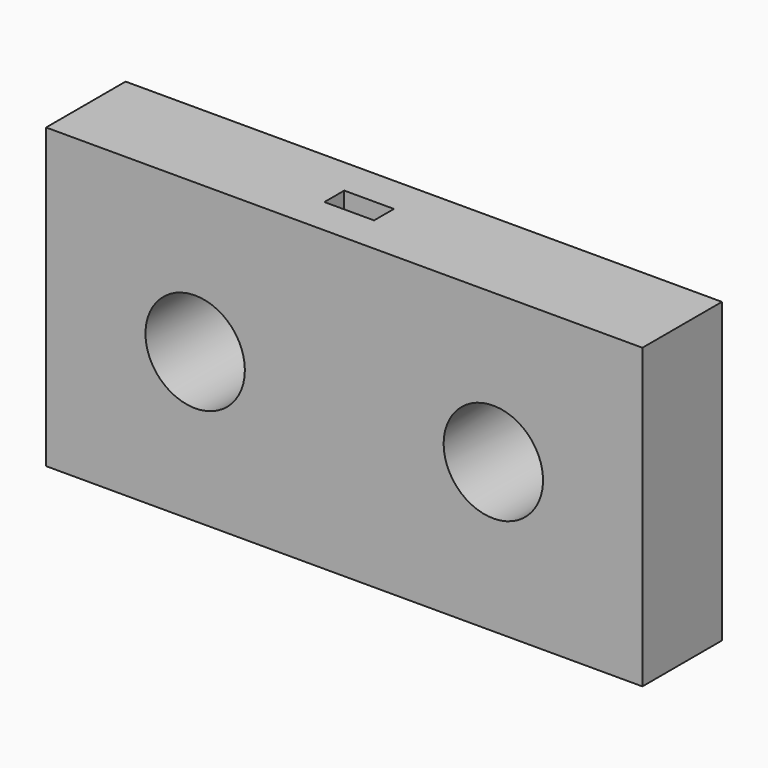
from build123d import *

# Parameters (mm, degrees)
F0_W     = 152.4
F0_H     = 76.2
F0_R     = 12.7
F2_DEPTH = 25.4
F1_W     = 12.7
F1_H     = 6.35
F3_DEPTH = 38.1


with BuildPart() as f2:
    # F0 (on Front) → F2 (new body)
    with BuildSketch(Plane.XZ):
        Rectangle(F0_W, F0_H)
        with Locations((-38.1, 0)):
            Circle(F0_R, mode=Mode.SUBTRACT)
        with BuildLine():
            ThreePointArc((50.8, 0), (38.1, -12.7), (25.4, 0))
            ThreePointArc((25.4, 0), (38.1, 12.7), (50.8, 0))
        make_face(mode=Mode.SUBTRACT)
    extrude(amount=F2_DEPTH)

    # F1 (on Top) → F3 (cut, symmetric)
    with BuildSketch(Plane.XY):
        with Locations((-6.35, -12.7)):
            Rectangle(F1_W, F1_H)
    extrude(amount=F3_DEPTH, both=True, mode=Mode.SUBTRACT)


solid = f2.part
